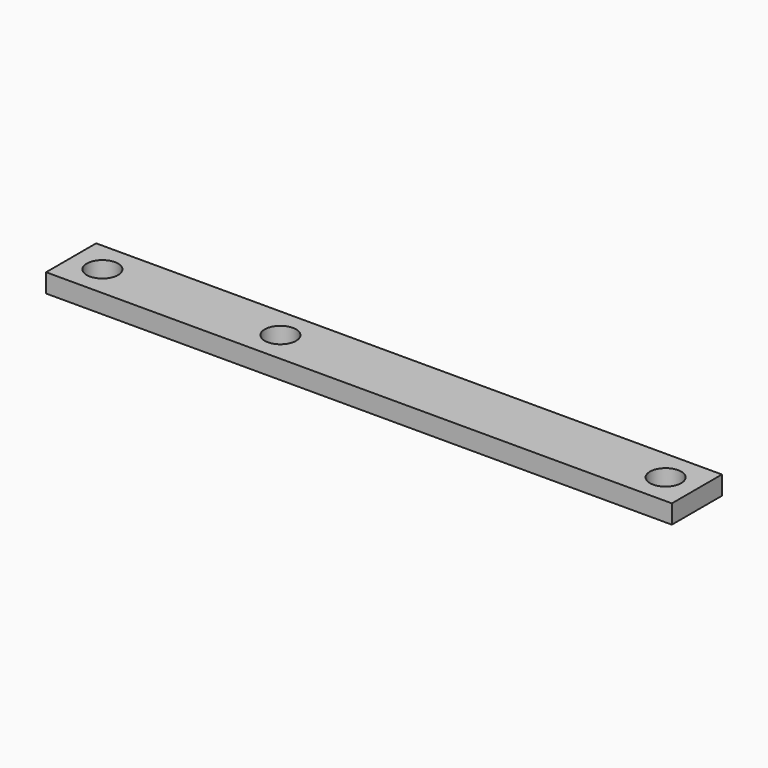
from build123d import *

# Parameters (mm, degrees)
F0_W     = 100
F0_H     = 10
F0_R     = 2.5
F1_DEPTH = 3
F2_R     = 2.5
F3_DEPTH = 3


with BuildPart() as f1:
    # F0 (on Top) → F1 (new body)
    with BuildSketch(Plane.XY):
        Rectangle(F0_W, F0_H)
        with Locations((-45, 0)):
            Circle(F0_R, mode=Mode.SUBTRACT)
        with Locations((45, 0)):
            Circle(F0_R, mode=Mode.SUBTRACT)
    extrude(amount=F1_DEPTH)

    # F2 (on face) → F3 (cut)
    with BuildSketch(Plane.XY.offset(3)):
        with Locations((-16.552, 0)):
            Circle(F2_R)
    extrude(amount=-F3_DEPTH, mode=Mode.SUBTRACT)


solid = f1.part
